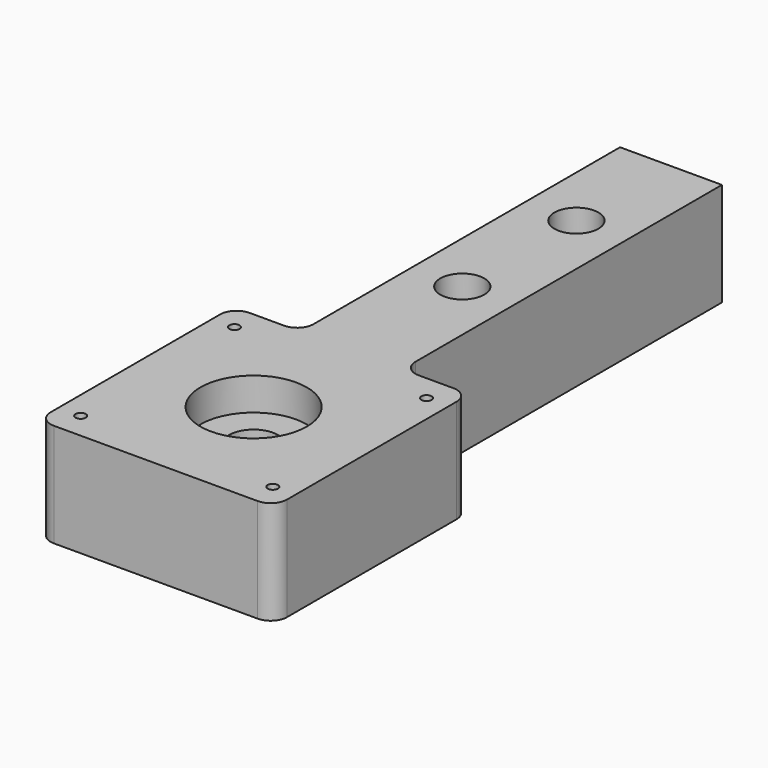
from build123d import *

# Parameters (mm, degrees)
SKETCH002_R     = 6
SKETCH002_R_2   = 3
SKETCH002_R_3   = 1.25
PAD_DEPTH       = 25.4
SKETCH_R        = 13.05
POCKET_DEPTH    = 8
SKETCH003_R     = 13.05
POCKET001_DEPTH = 8
SKETCH004_R     = 5.4
POCKET002_DEPTH = 10


with BuildPart() as part:
    # Sketch002 → Pad (new body)
    with BuildSketch(Plane(origin=(0, 0, 0), x_dir=(1, 0, 0), z_dir=(0, 0, -1))):
        with BuildLine():
            Line((-16.5, 0), (-41.5, 0))
            Line((-41.5, 0), (-41.5, 94.000095))
            ThreePointArc((-41.5, 94.000095), (-42.671573, 96.828522), (-45.499999, 98.000094))
            Line((-54.000002, 98.000094), (-45.499999, 98.000094))
            ThreePointArc((-58, 102.000095), (-56.828428, 99.171668), (-54.000002, 98.000094))
            Line((-58, 153.999905), (-58, 102.000095))
            ThreePointArc((-54.000014, 157.999905), (-56.828432, 156.828327), (-58, 153.999905))
            Line((-54.000014, 157.999905), (-4.000015, 158.000095))
            ThreePointArc((0, 154.000095), (-1.171578, 156.828527), (-4.000015, 158.000095))
            Line((0, 154.000095), (0, 101.999905))
            ThreePointArc((-4.000015, 97.999905), (-1.171578, 99.171473), (0, 101.999905))
            Line((-12.500001, 97.999905), (-4.000015, 97.999905))
            ThreePointArc((-12.500001, 97.999905), (-15.328427, 96.828332), (-16.5, 93.999905))
            Line((-16.5, 93.999905), (-16.5, 0))
        make_face()
        with Locations((-29, 128)):
            Circle(SKETCH002_R, mode=Mode.SUBTRACT)
        with Locations((-29, 64)):
            Circle(SKETCH002_R_2, mode=Mode.SUBTRACT)
        with Locations((-29, 29)):
            Circle(SKETCH002_R_2, mode=Mode.SUBTRACT)
        with Locations((-5.43, 151.57)):
            Circle(SKETCH002_R_3, mode=Mode.SUBTRACT)
        with Locations((-52.57, 151.57)):
            Circle(SKETCH002_R_3, mode=Mode.SUBTRACT)
        with Locations((-52.57, 104.43)):
            Circle(SKETCH002_R_3, mode=Mode.SUBTRACT)
        with Locations((-5.43, 104.43)):
            Circle(SKETCH002_R_3, mode=Mode.SUBTRACT)
    extrude(amount=PAD_DEPTH)

    # Sketch → Pocket (cut)
    with BuildSketch(Plane.XY):
        with Locations((-29, -128)):
            Circle(SKETCH_R)
    extrude(amount=-POCKET_DEPTH, mode=Mode.SUBTRACT)

    # Sketch003 → Pocket001 (cut)
    with BuildSketch(Plane(origin=(0, 0, -25.4), x_dir=(1, 0, 0), z_dir=(0, 0, -1))):
        with Locations((-29, 128)):
            Circle(SKETCH003_R)
    extrude(amount=-POCKET001_DEPTH, mode=Mode.SUBTRACT)

    # Sketch004 → Pocket002 (cut)
    with BuildSketch(Plane.XY):
        with Locations((-29, -29)):
            Circle(SKETCH004_R)
        with Locations((-29, -64)):
            Circle(SKETCH004_R)
    extrude(amount=-POCKET002_DEPTH, mode=Mode.SUBTRACT)


solid = part.part
